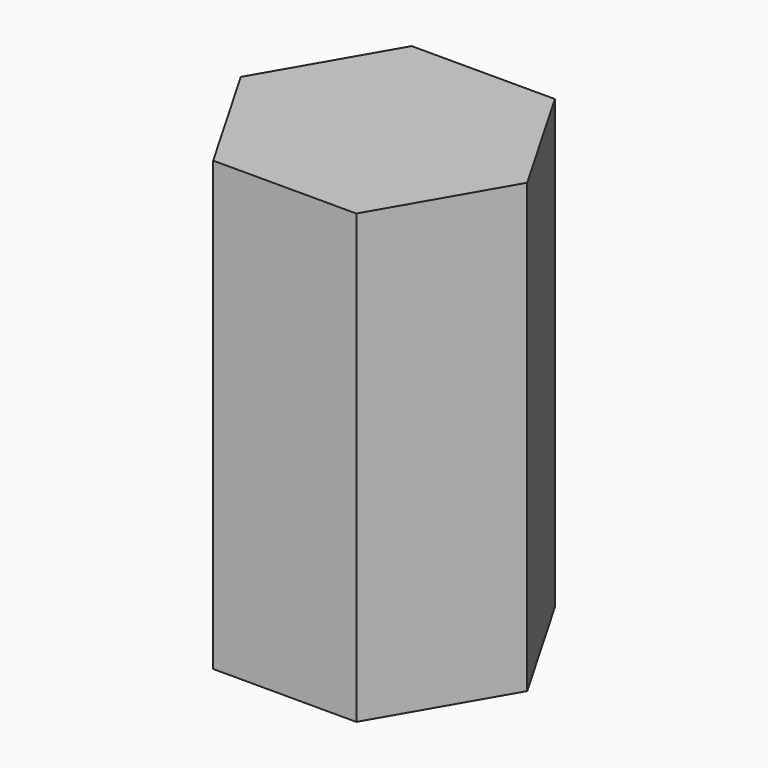
from build123d import *

# Parameters (mm, degrees)
EXTRUDE_DEPTH = 10


with BuildPart() as part:
    # Sketch → Extrude (new body)
    with BuildSketch(Plane.XY):
        Polygon((-1.6, 2.771281), (1.6, 2.771281), (3.2, 0), (1.6, -2.771281), (-1.6, -2.771281), (-3.2, 0), align=None)
    extrude(amount=EXTRUDE_DEPTH)


solid = part.part
